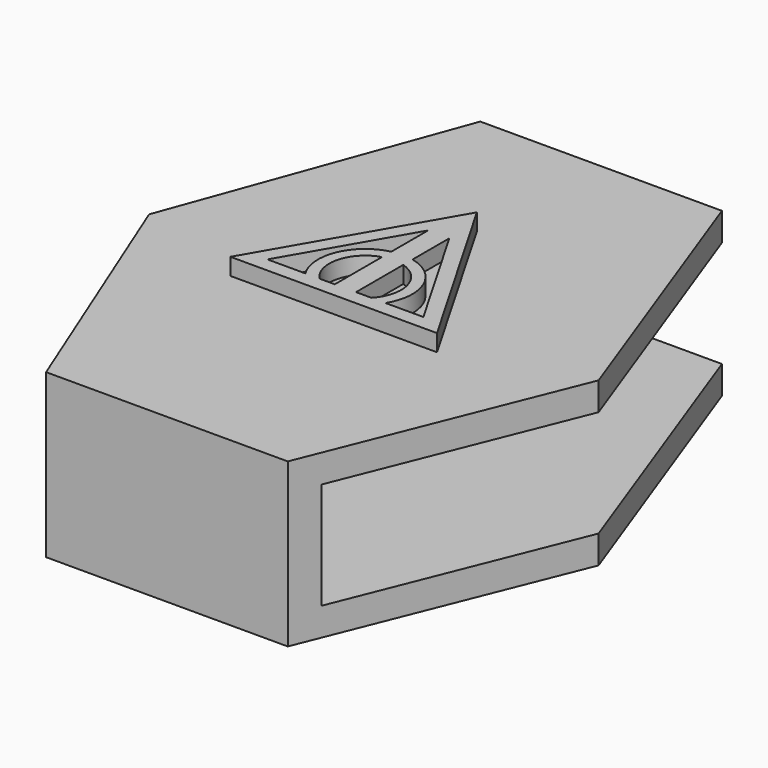
from build123d import *

# Parameters (mm, degrees)
F1_DEPTH = 7.366
F2_T     = -1.27
F4_DEPTH = 0.762


with BuildPart() as f1:
    # F0 (on Top) → F1 (new body)
    with BuildSketch(Plane.XY):
        Polygon((14.39459, 28.100452), (3.467799, 28.100452), (-1.228805, 15.256678), (3.467799, 3.563094), (8.931195, 3.563094), (14.39459, 3.563094), (19.091195, 15.256678), align=None)
    extrude(amount=F1_DEPTH)

    # F2
    f2_openings = [f1.faces().sort_by_distance(p)[0] for p in [
        (8.931195, 28.100452, 3.683),
        (16.742892, 21.678565, 3.683),
        (16.742892, 9.409886, 3.683),
        (1.119497, 21.678565, 3.683),
        (1.119497, 9.409886, 3.683),
    ]]
    offset(amount=F2_T, openings=f2_openings)

    # F3 (on face) → F4 (join)
    with BuildSketch(Plane.XY.offset(7.366)):
        Polygon((3.955232, 13.371391), (13.296179, 13.371391), (8.625706, 21.460889), align=None)
        with BuildLine():
            ThreePointArc((7.451111, 14.032797), (7.055542, 15.560872), (8.146025, 16.702071))
            Line((8.146025, 16.702071), (8.146025, 14.032797))
            Line((8.146025, 14.032797), (7.451111, 14.032797))
        make_face(mode=Mode.SUBTRACT)
        with BuildLine():
            ThreePointArc((9.105387, 16.702071), (10.195869, 15.560872), (9.8003, 14.032797))
            Line((9.8003, 14.032797), (9.105387, 14.032797))
            Line((9.105387, 14.032797), (9.105387, 16.702071))
        make_face(mode=Mode.SUBTRACT)
        with BuildLine():
            Line((6.813301, 14.032797), (5.10082, 14.032797))
            Line((5.10082, 14.032797), (8.146025, 19.307246))
            Line((8.146025, 19.307246), (8.146025, 17.227563))
            ThreePointArc((8.146025, 17.227563), (6.659733, 15.972221), (6.813301, 14.032797))
        make_face(mode=Mode.SUBTRACT)
        with BuildLine():
            Line((9.105387, 19.307246), (12.150591, 14.032797))
            Line((12.150591, 14.032797), (10.438111, 14.032797))
            ThreePointArc((10.438111, 14.032797), (10.591678, 15.972221), (9.105387, 17.227563))
            Line((9.105387, 17.227563), (9.105387, 19.307246))
        make_face(mode=Mode.SUBTRACT)
    extrude(amount=F4_DEPTH)


solid = f1.part
